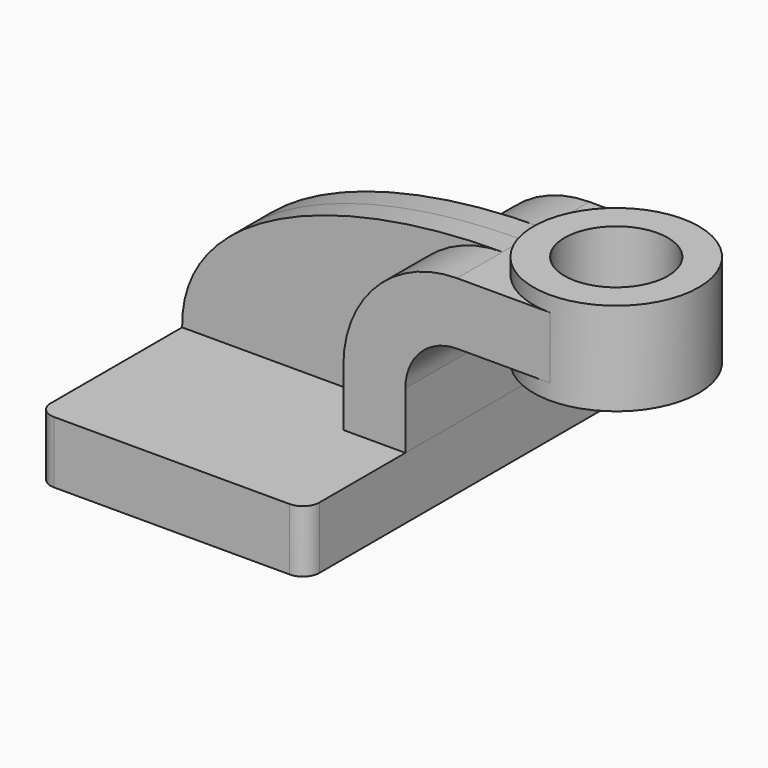
from build123d import *

# Parameters (mm, degrees)
F1_DEPTH = 63.5
F0_W     = 25.4
F0_H     = 19.05
F2_DEPTH = 25.4
F3_DEPTH = 7.9375
F5_R     = 5.08
F6_R     = 15.875
F7_DEPTH = 25.4
F8_DEPTH = 101.601


with BuildPart() as f1:
    # F0 (on Front) → F1 (new body, symmetric)
    with BuildSketch(Plane.XZ):
        Polygon((22.225, 9.525), (-41.275, 9.525), (-41.275, -9.525), (41.275, -9.525), (41.275, 9.525), align=None)
    extrude(amount=F1_DEPTH, both=True)

    # F5
    f5_edges = [f1.edges().sort_by_distance(p)[0] for p in [
        (41.275, -63.5, 0),
        (-41.275, -63.5, 0),
        (-41.275, 63.5, 0),
        (41.275, 63.5, 0),
    ]]
    fillet(f5_edges, radius=F5_R)


with BuildPart() as f2:
    # F0 (on Front) → F2 (new body, symmetric)
    with BuildSketch(Plane.XZ):
        with Locations((73.025, 52.4002)):
            Rectangle(F0_W, F0_H)
        with BuildLine():
            Line((22.225, 27.0002), (22.225, 9.525))
            Line((22.225, 9.525), (41.275, 9.525))
            Line((41.275, 9.525), (41.275, 27.0002))
            ThreePointArc((41.275, 27.0002), (45.9246798487, 38.2255201513), (57.15, 42.8752))
            Line((57.15, 42.8752), (60.325, 42.8752))
            Line((60.325, 42.8752), (60.325, 61.9252))
            Line((60.325, 61.9252), (57.15, 61.9252))
            ThreePointArc((57.15, 61.9252), (32.4542956671, 51.6959043329), (22.225, 27.0002))
        make_face()
    extrude(amount=F2_DEPTH, both=True)

    # F0 (on Front) → F4 (revolve)
    with BuildSketch(Plane.XZ):
        Polygon((85.725, 66.675), (85.725, 61.9252), (85.725, 42.8752), (85.725, 38.1), (111.125, 38.1), (111.125, 66.675), align=None)
    revolve(axis=Axis((85.725, 0, 52.3875), (0, 0, 1)))

    # F6 (on face) → F7 (join)
    with BuildSketch(Plane.XY.offset(66.675)):
        with Locations((85.725, 0)):
            Circle(F6_R)
    extrude(amount=F7_DEPTH)

    # F8 (cut, through all): a face of the model
    f8_faces = [f2.faces().sort_by_distance(p)[0] for p in [
        (85.725, 0, 92.075),
    ]]
    extrude(f8_faces, amount=-F8_DEPTH, mode=Mode.SUBTRACT)


with BuildPart() as f3:
    # F0 (on Front) → F3 (new body, symmetric)
    with BuildSketch(Plane.XZ):
        with BuildLine():
            add(Edge.make_bspline(
                [(57.15, 61.9252), (5.6373281404, 62.0564445853), (-41.8535582721, 43.3202907443), (-41.275, 9.525)],
                knots=[0, 0, 0, 0, 111.5045361635, 111.5045361635, 111.5045361635, 111.5045361635], degree=3))
            Line((-41.275, 9.525), (22.225, 9.525))
            Line((22.225, 9.525), (22.225, 27.0002))
            ThreePointArc((22.225, 27.0002), (32.4542956671, 51.6959043329), (57.15, 61.9252))
        make_face()
    extrude(amount=F3_DEPTH, both=True)


solid = Compound([f1.part, f2.part, f3.part])
